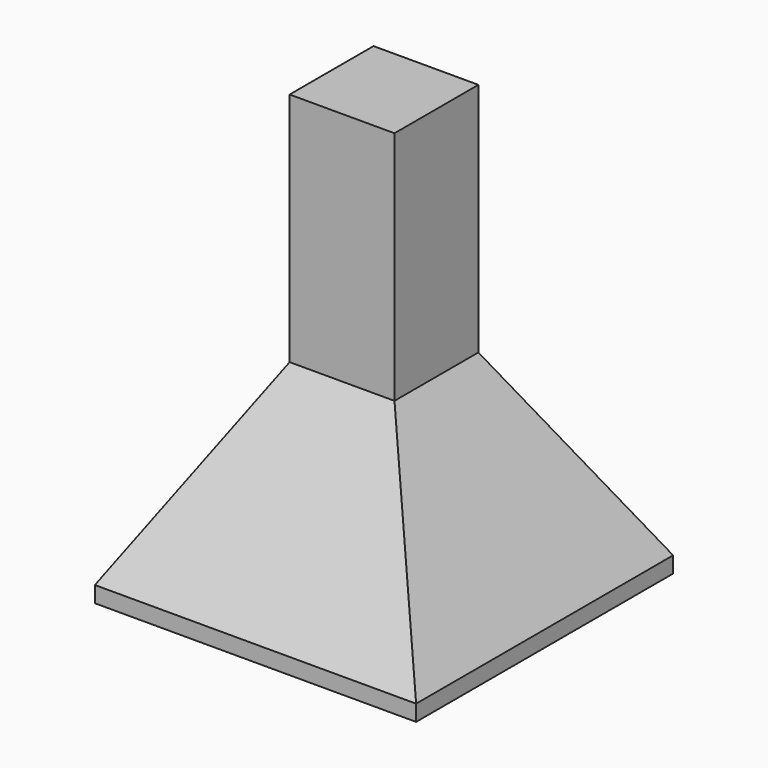
from build123d import *

# Parameters (mm, degrees)
F0_W     = 600
F0_H     = 600
F1_DEPTH = 380
F2_SIZE2 = 202.0725942164
F2_SIZE  = 350
F3_W     = 195.8548115673
F3_H     = 195.8548115673
F4_DEPTH = 440


with BuildPart() as f1:
    # F0 (on Top) → F1 (new body)
    with BuildSketch(Plane.XY):
        with Locations((-300, 300)):
            Rectangle(F0_W, F0_H)
    extrude(amount=F1_DEPTH)

    # F2
    f2_edges = [f1.edges().sort_by_distance(p)[0] for p in [
        (-300, 0, 380),
        (0, 300, 380),
        (-300, 600, 380),
        (-600, 300, 380),
    ]]
    chamfer(f2_edges, length=F2_SIZE, length2=F2_SIZE2)

    # F3 (on face) → F4 (join)
    with BuildSketch(Plane.XY.offset(380)):
        with Locations((-300, 300)):
            Rectangle(F3_W, F3_H)
    extrude(amount=F4_DEPTH)


solid = f1.part
